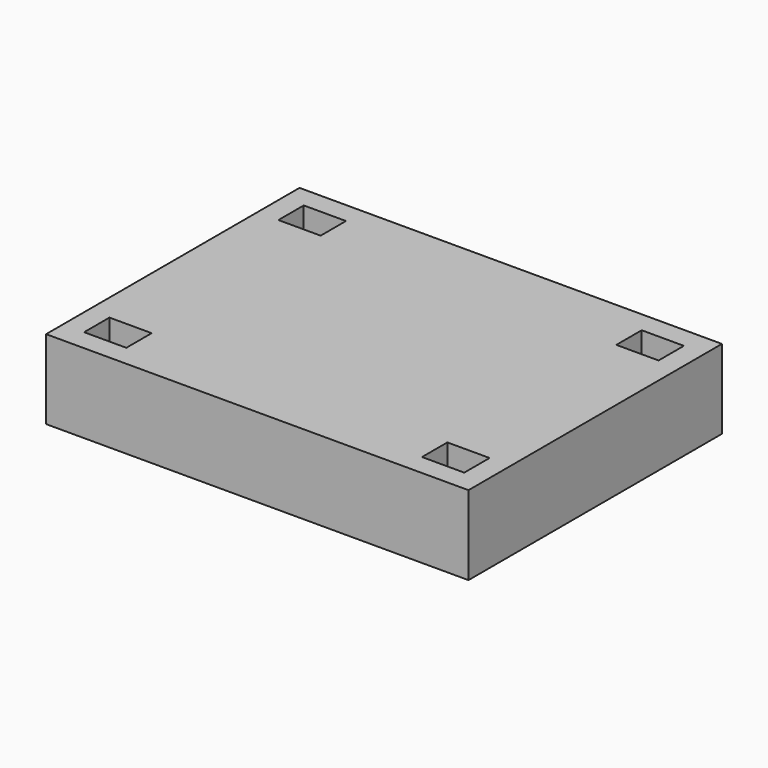
from build123d import *

# Parameters (mm, degrees)
SKETCH_W     = 80
SKETCH_H     = 60
PAD_DEPTH    = 15
SKETCH001_W  = 8
SKETCH001_H  = 6
POCKET_DEPTH = 5


with BuildPart() as part:
    # Sketch → Pad (new body)
    with BuildSketch(Plane.XY):
        Rectangle(SKETCH_W, SKETCH_H)
    extrude(amount=PAD_DEPTH)

    # Sketch001 → Pocket (cut)
    with BuildSketch(Plane.XY.offset(15)):
        with Locations((-32, 23)):
            Rectangle(SKETCH001_W, SKETCH001_H)
        with Locations((32, 23)):
            Rectangle(SKETCH001_W, SKETCH001_H)
        with Locations((32, -23)):
            Rectangle(SKETCH001_W, SKETCH001_H)
        with Locations((-32, -23)):
            Rectangle(SKETCH001_W, SKETCH001_H)
    extrude(amount=-POCKET_DEPTH, mode=Mode.SUBTRACT)


solid = part.part
